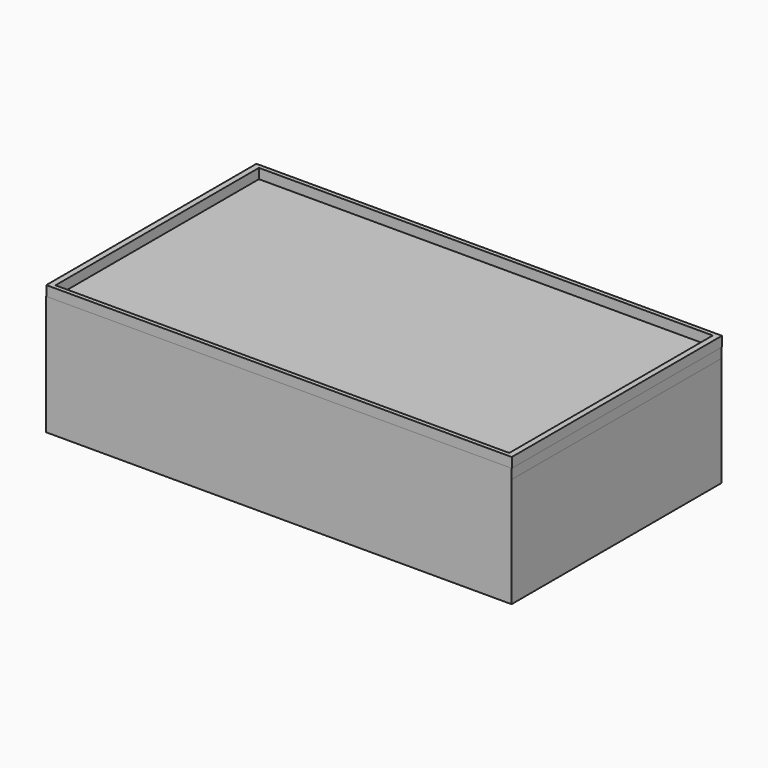
from build123d import *

# Parameters (mm, degrees)
SKETCH002_W           = 140
SKETCH002_H           = 79
SKETCH002_W_2         = 136.5
SKETCH002_H_2         = 76.5
EXTRUDE008_DEPTH      = 3
SKETCH001_W           = 134
SKETCH001_H           = 5
EXTRUDE007_DEPTH      = 15
EXTRUDE007_DEPTH_BACK = 18
SKETCH_W              = 140
SKETCH_H              = 79
SKETCH_W_2            = 134
SKETCH_H_2            = 73
EXTRUDE_DEPTH         = 18
RECTANGLE_W           = 139.93866
RECTANGLE_H           = 78.819504
EXTRUDE006_DEPTH      = 3


with BuildPart() as extrude008:
    # Sketch002 → Extrude008 (new body)
    with BuildSketch(Plane(origin=(-0.276695, 0.323605, 18), x_dir=(1, 0, 0), z_dir=(0, 0, 1))):
        with Locations((-0.098421, 16.948781)):
            Rectangle(SKETCH002_W, SKETCH002_H)
        with Locations((-0.098421, 16.948781)):
            Rectangle(SKETCH002_W_2, SKETCH002_H_2, mode=Mode.SUBTRACT)
    extrude(amount=EXTRUDE008_DEPTH)


with BuildPart() as extrude007:
    # Sketch001 → Extrude007 (new body, two sides)
    with BuildSketch(Plane.XY) as extrude007_sk:
        with Locations((-0.442642, 54.631316)):
            Rectangle(SKETCH001_W, SKETCH001_H)
    extrude(amount=EXTRUDE007_DEPTH)
    extrude(extrude007_sk.sketch, amount=-EXTRUDE007_DEPTH_BACK)


with BuildPart() as extrude_body:
    # Sketch → Extrude (new body, symmetric)
    with BuildSketch(Plane.XY):
        with Locations((-0.443149, 17.272384)):
            Rectangle(SKETCH_W, SKETCH_H)
        with Locations((-0.443149, 17.272384)):
            Rectangle(SKETCH_W_2, SKETCH_H_2, mode=Mode.SUBTRACT)
    extrude(amount=EXTRUDE_DEPTH, both=True)


with BuildPart() as connect001:
    # Rectangle → Extrude006 (new body)
    with BuildSketch(Plane(origin=(-70.381805, -22.047119, 18), x_dir=(1, 0, 0), z_dir=(0, 0, 1))):
        with Locations((69.96933, 39.409752)):
            Rectangle(RECTANGLE_W, RECTANGLE_H)
    extrude(amount=-EXTRUDE006_DEPTH)

    # Connect: union Extrude body
    add(extrude_body.part)

    # Cut: cut Extrude007
    add(extrude007.part, mode=Mode.SUBTRACT)

    # Connect001: union Extrude008
    add(extrude008.part)


solid = connect001.part
